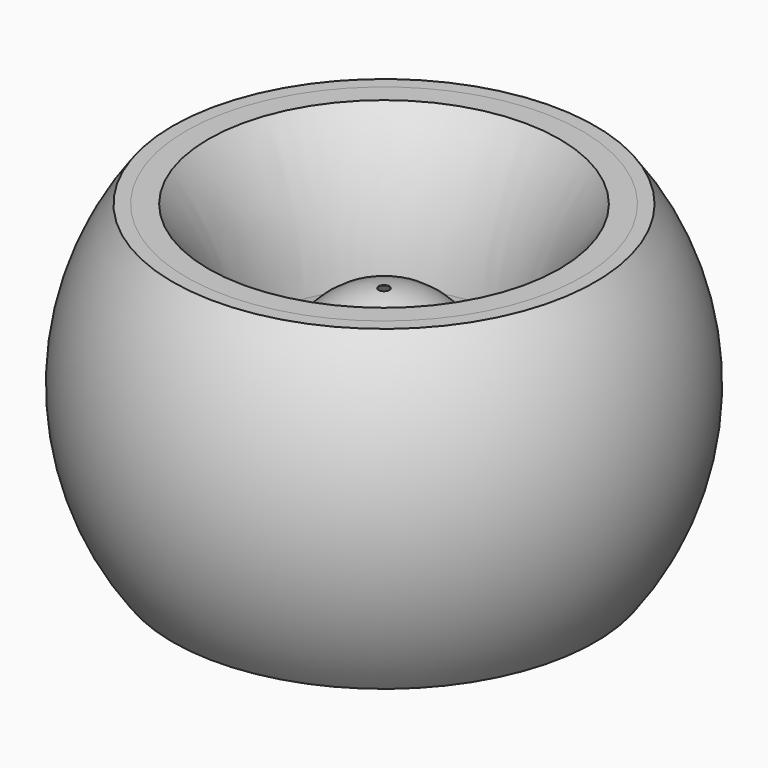
from build123d import *

# Parameters (mm, degrees)
F8_W = 3.3444157124
F8_H = 95.25


with BuildPart() as f2:
    # F0 (on Front) → F2 (revolve)
    with BuildSketch(Plane.XZ):
        with BuildLine():
            Line((-1.592998975, 25.2688867373), (-1.592998975, 25.3499971256))
            ThreePointArc((-1.592998975, 25.3499971256), (-25.4, 0), (-1.592998975, -25.3499971256))
            Line((-1.592998975, -25.3499971256), (-1.592998975, -25.2688867373))
            add(Edge.make_bspline(
                [(-12.7, -14.9303408162), (-8.5747637494, -24.1166237948), (-1.592998975, -25.2688867373)],
                knots=[2.1991438328, 2.1991438328, 2.1991438328, 3.0399424048, 3.0399424048, 3.0399424048], degree=2, weights=[1, 0.9129260545, 1]))
            add(Edge.make_bspline(
                [(-12.7, 14.9303408162), (-19.4046903858, 0), (-12.7, -14.9303408162)],
                knots=[0.9424488208, 0.9424488208, 0.9424488208, 2.1991438328, 2.1991438328, 2.1991438328], degree=2, weights=[1, 0.8089999628, 1]))
            add(Edge.make_bspline(
                [(-1.592998975, 25.2688867373), (-8.5747637494, 24.1166237948), (-12.7, 14.9303408162)],
                knots=[0.1016502488, 0.1016502488, 0.1016502488, 0.9424488208, 0.9424488208, 0.9424488208], degree=2, weights=[1, 0.9129260545, 1]))
        make_face()
    revolve(axis=Axis((0, 0, 0.0868309289), (0, 0, -1)))


with BuildPart() as f9:
    # F8 (on Front) → F9 (revolve)
    with BuildSketch(Plane.XZ):
        with BuildLine():
            ThreePointArc((-59.4836059347, -47.625), (-76.2, 0), (-59.4836059347, 47.625))
            Line((-59.4836059347, 47.625), (-63.5, 47.625))
            ThreePointArc((-63.5, 47.625), (-79.375, 0), (-63.5, -47.625))
            Line((-63.5, -47.625), (-59.4836059347, -47.625))
        make_face()
    revolve(axis=Axis((0, 0, 0.0868309289), (0, 0, -1)))


with BuildPart() as f10:
    # F8 (on Front) → F10 (revolve)
    with BuildSketch(Plane.XZ):
        with BuildLine():
            ThreePointArc((-36.3250735557, 6.3444854527), (-41.4749116, 28.2106692423), (-52.7768842876, 47.625))
            Line((-52.7768842876, 47.625), (-52.7768842876, -47.625))
            ThreePointArc((-52.7768842876, -47.625), (-41.4749116, -28.2106692423), (-36.3250735557, -6.3444854527))
            ThreePointArc((-36.3250735557, -6.3444854527), (-42.4104902223, 0), (-36.3250735557, 6.3444854527))
        make_face()
        with Locations((-54.4490921438, 0)):
            Rectangle(F8_W, F8_H)
        with BuildLine():
            Line((-56.1213, 47.625), (-59.4836059347, 47.625))
            ThreePointArc((-59.4836059347, 47.625), (-76.2, 0), (-59.4836059347, -47.625))
            Line((-59.4836059347, -47.625), (-56.1213, -47.625))
            Line((-56.1213, -47.625), (-56.1213, 47.625))
        make_face()
    revolve(axis=Axis((0, 0, 0.0868309289), (0, 0, -1)))


with BuildPart() as f11:
    # F8 (on Front) → F11 (revolve)
    with BuildSketch(Plane.XZ):
        with BuildLine():
            ThreePointArc((-36.3250735557, -6.3444854527), (-36.0604902223, 0), (-36.3250735557, 6.3444854527))
            ThreePointArc((-36.3250735557, 6.3444854527), (-42.4104902223, 0), (-36.3250735557, -6.3444854527))
        make_face()
    revolve(axis=Axis((0, 0, 0.0868309289), (0, 0, -1)))


solid = Compound([f2.part, f9.part, f10.part, f11.part])
